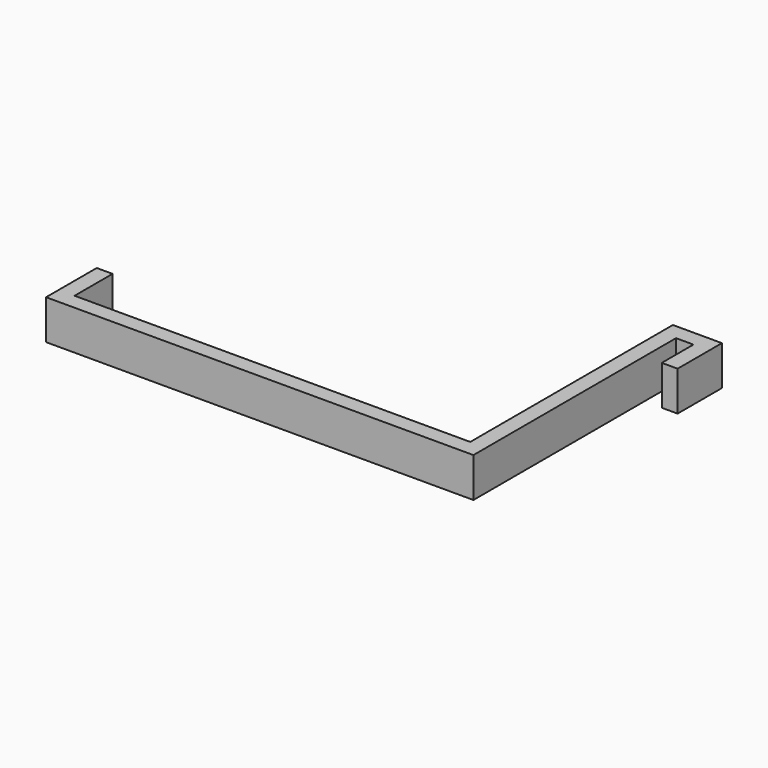
from build123d import *

# Parameters (mm, degrees)
F0_W     = 50
F0_H     = 2
F1_DEPTH = 5


with BuildPart() as f1:
    # F0 (on Top) → F1 (new body)
    with BuildSketch(Plane.XY):
        Polygon((25, 1), (25, -1), (27, -1), (27, 31), (25, 31), align=None)
        Rectangle(F0_W, F0_H)
        Polygon((-27, -1), (-25, -1), (-25, 1), (-25, 7), (-27, 7), align=None)
        Polygon((25, 31), (27, 31), (29.2, 31), (29.2, 26), (31.2, 26), (31.2, 31), (31.2, 33), (25, 33), align=None)
    extrude(amount=F1_DEPTH)


solid = f1.part
